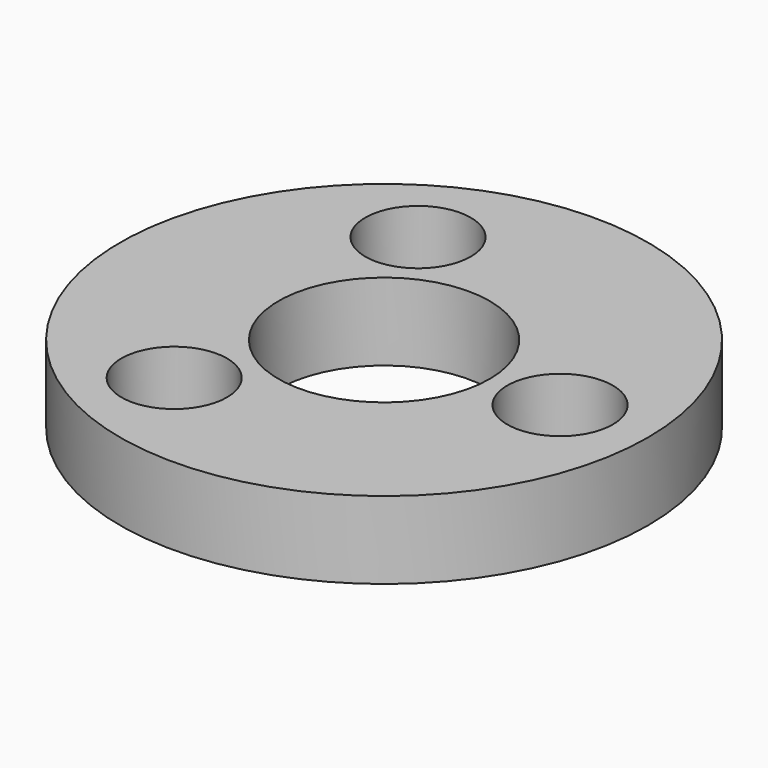
from build123d import *

# Parameters (mm, degrees)
SKETCH_1_R     = 37.5
PAD_1_DEPTH    = 11
SKETCH_2_R     = 15
POCKET_2_DEPTH = 11.001
SKETCH_3_R     = 4.5
POCKET_3_DEPTH = 11.001
SKETCH_4_R     = 4.5
POCKET_4_DEPTH = 11.001
SKETCH_5_R     = 4.5
POCKET_5_DEPTH = 11.001
SKETCH_6_R     = 7.5
POCKET_6_DEPTH = 11.001
SKETCH_7_R     = 7.5
POCKET_7_DEPTH = 11.001
SKETCH_8_R     = 7.5
POCKET_8_DEPTH = 11.001


with BuildPart() as part:
    # Sketch_1 → Pad_1 (new body)
    with BuildSketch(Plane.XY):
        Circle(SKETCH_1_R)
    extrude(amount=PAD_1_DEPTH)

    # Sketch_2 (on Face3 of Pad_1) → Pocket_2 (cut, through all)
    with BuildSketch(Plane.XY.offset(11)):
        Circle(SKETCH_2_R)
    extrude(amount=-POCKET_2_DEPTH, mode=Mode.SUBTRACT)

    # Sketch_3 (on Face3 of Pocket_2) → Pocket_3 (cut, through all)
    with BuildSketch(Plane.XY.offset(11)):
        with Locations((25, 0)):
            Circle(SKETCH_3_R)
    extrude(amount=-POCKET_3_DEPTH, mode=Mode.SUBTRACT)

    # Sketch_4 (on Face3 of Pocket_3) → Pocket_4 (cut, through all)
    with BuildSketch(Plane.XY.offset(11)):
        with Locations((-12.5, 21.65)):
            Circle(SKETCH_4_R)
    extrude(amount=-POCKET_4_DEPTH, mode=Mode.SUBTRACT)

    # Sketch_5 (on Face3 of Pocket_4) → Pocket_5 (cut, through all)
    with BuildSketch(Plane.XY.offset(11)):
        with Locations((-12.5, -21.65)):
            Circle(SKETCH_5_R)
    extrude(amount=-POCKET_5_DEPTH, mode=Mode.SUBTRACT)

    # Sketch_6 (on Face3 of Pocket_5) → Pocket_6 (cut, through all)
    with BuildSketch(Plane.XY.offset(11)):
        with Locations((25, 0)):
            Circle(SKETCH_6_R)
    extrude(amount=-POCKET_6_DEPTH, mode=Mode.SUBTRACT)

    # Sketch_7 (on Face3 of Pocket_6) → Pocket_7 (cut, through all)
    with BuildSketch(Plane.XY.offset(11)):
        with Locations((-12.5, 21.65)):
            Circle(SKETCH_7_R)
    extrude(amount=-POCKET_7_DEPTH, mode=Mode.SUBTRACT)

    # Sketch_8 (on Face3 of Pocket_7) → Pocket_8 (cut, through all)
    with BuildSketch(Plane.XY.offset(11)):
        with Locations((-12.5, -21.65)):
            Circle(SKETCH_8_R)
    extrude(amount=-POCKET_8_DEPTH, mode=Mode.SUBTRACT)


solid = part.part
